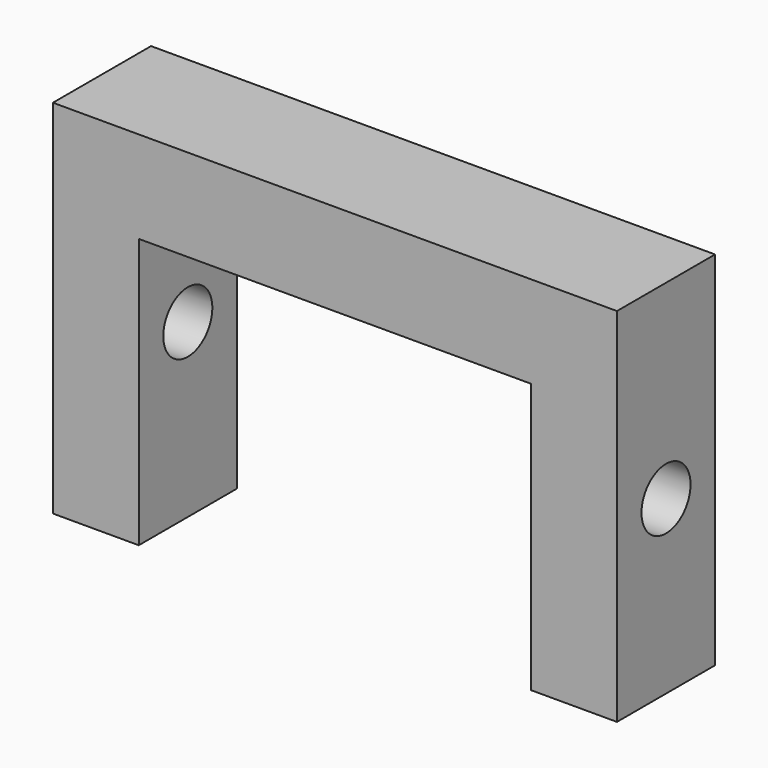
from build123d import *

# Parameters (mm, degrees)
F1_DEPTH = 10
F2_R     = 2.5
F3_DEPTH = 46


with BuildPart() as f1:
    # F0 (on Front) → F1 (new body)
    with BuildSketch(Plane.XZ):
        Polygon((-7, 0), (0, 0), (0, 22), (32, 22), (32, 0), (39, 0), (39, 29.5), (-7, 29.5), align=None)
    extrude(amount=F1_DEPTH)

    # F2 (on face) → F3 (cut, through all)
    with BuildSketch(Plane.YZ.offset(39)):
        with Locations((-5, 14)):
            Circle(F2_R)
    extrude(amount=-F3_DEPTH, mode=Mode.SUBTRACT)


solid = f1.part
